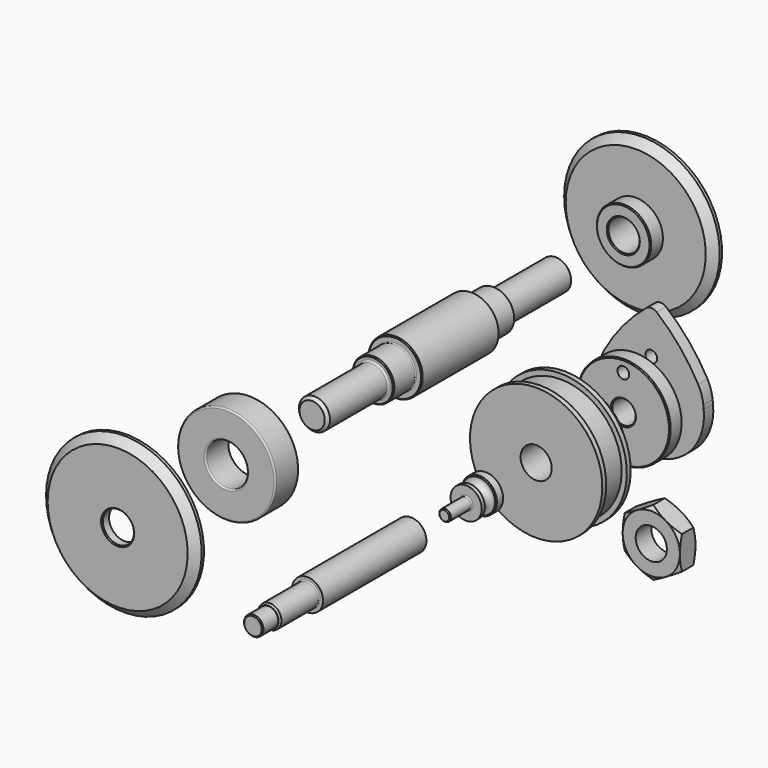
from build123d import *

# Parameters (mm, degrees)
F2_SIZE    = 0.396875
F3_R       = 0.396875
F8_SIZE    = 0.396875
F9_SIZE    = 0.635
F10_R      = 0.396875
F13_SIZE   = 0.396875
F14_R      = 0.396875
F16_R      = 6.35
F16_R_2    = 2.38125
F17_DEPTH  = 4.7625
F18_DEPTH  = 25.4
F21_SIZE   = 1.190625
F22_SIZE   = 0.396875
F22_2_SIZE = 0.396875
F22_3_SIZE = 0.396875
F23_R      = 0.7112
F23_2_R    = 0.7112
F23_3_R    = 0.7112
F24_R      = 0.381
F24_2_R    = 0.381
F25_R      = 6.35
F26_DEPTH  = 7.9375


with BuildPart() as f1:
    # F0 (on Right) → F1 (revolve)
    with BuildSketch(Plane.YZ):
        with BuildLine():
            Line((-34.13125, 2.38125), (-34.13125, 0))
            Line((-34.13125, 0), (-12.7, 0))
            Line((-12.7, 0), (-12.7, 7.14375))
            Line((-12.7, 7.14375), (-16.66875, 7.14375))
            Line((-16.66875, 7.14375), (-16.66875, 6.35))
            ThreePointArc((-16.66875, 6.35), (-19.05, 3.96875), (-21.43125, 6.35))
            Line((-21.43125, 6.35), (-23.01875, 6.35))
            Line((-23.01875, 6.35), (-23.01875, 2.38125))
            Line((-23.01875, 2.38125), (-34.13125, 2.38125))
        make_face()
    revolve(axis=Axis((0, -81.3118070364, 0), (0, -1, 0)))

    # F2
    f2_edges = [f1.edges().sort_by_distance(p)[0] for p in [
        (0, -12.7, -7.14375),
        (0, -16.66875, -7.14375),
        (0, -14.684375, 7.14375),
        (0, -34.13125, -2.38125),
    ]]
    chamfer(f2_edges, length=F2_SIZE)

    # F3
    f3_edges = [f1.edges().sort_by_distance(p)[0] for p in [
        (0, -23.01875, -2.38125),
    ]]
    fillet(f3_edges, radius=F3_R)


with BuildPart() as f5:
    # F4 (on Right) → F5 (revolve)
    with BuildSketch(Plane.YZ):
        Polygon((12.7, 27), (12.7, 6.35), (35.2, 6.35), (35.2, 19), (27.2, 19), (27.2, 27), (25.2, 27), (25.2, 24.9), (14.7, 24.9), (14.7, 27), align=None)
    revolve(axis=Axis((0, 15.1764983311, 0), (0, 1, 0)))

    # F24#2
    f24_2_edges = [f5.edges().sort_by_distance(p)[0] for p in [
        (0, 27.2, -19),
    ]]
    fillet(f24_2_edges, radius=F24_2_R)


with BuildPart() as f7:
    # F6 (on Right) → F7 (revolve)
    with BuildSketch(Plane.YZ):
        Polygon((-131.7625, 3.96875), (-131.7625, 0), (-50.8, 0), (-50.8, 6.35), (-103.98125, 6.35), (-103.98125, 4.7625), (-123.825, 4.7625), (-123.825, 3.96875), align=None)
    revolve(axis=Axis((0, -69.021075964, 0), (0, -1, 0)))

    # F8
    f8_edges = [f7.edges().sort_by_distance(p)[0] for p in [
        (0, -50.8, -6.35),
        (0, -131.7625, -3.96875),
    ]]
    chamfer(f8_edges, length=F8_SIZE)

    # F9
    f9_edges = [f7.edges().sort_by_distance(p)[0] for p in [
        (0, -123.825, -4.7625),
    ]]
    chamfer(f9_edges, length=F9_SIZE)

    # F10
    f10_edges = [f7.edges().sort_by_distance(p)[0] for p in [
        (0, -103.98125, -4.7625),
    ]]
    fillet(f10_edges, radius=F10_R)


with BuildPart() as f12:
    # F11 (on Right) → F12 (revolve)
    with BuildSketch(Plane.YZ):
        Polygon((57.15, 4.7625), (67.46875, 4.7625), (67.46875, 6.35), (63.5, 6.35), (63.5, 19.05), (57.15, 19.05), align=None)
    revolve(axis=Axis((0, 34.108883065, 0), (0, 1, 0)))

    # F13
    f13_edges = [f12.edges().sort_by_distance(p)[0] for p in [
        (0, 67.46875, -4.7625),
        (0, 67.46875, -6.35),
        (0, 63.5, -19.05),
        (0, 57.15, -19.05),
        (0, 60.325, 19.05),
        (0, 57.15, -4.7625),
    ]]
    chamfer(f13_edges, length=F13_SIZE)

    # F14
    f14_edges = [f12.edges().sort_by_distance(p)[0] for p in [
        (0, 63.5, -6.35),
    ]]
    fillet(f14_edges, radius=F14_R)

    # F16 (on offset) → F18 (cut)
    with BuildSketch(Plane.XZ.offset(-76.2)):
        with Locations((0, 14.2875)):
            Circle(F16_R_2)
    extrude(amount=F18_DEPTH, mode=Mode.SUBTRACT)


with BuildPart() as f17:
    # F16 (on offset) → F17 (new body)
    with BuildSketch(Plane.XZ.offset(-76.2)):
        with BuildLine():
            Line((-21.2117580131, 3.9020430609), (-21.380860898, 2.3879651798))
            ThreePointArc((-21.380860898, 2.3879651798), (-0.061505847, -21.5137120802), (21.394165254, 2.26567507))
            Line((21.394165254, 2.26567507), (21.231132795, 3.8051470872))
            ThreePointArc((21.231132795, 3.8051470872), (20.5017667904, 7.3013374897), (19.0913082949, 10.5824849919))
            ThreePointArc((19.0913082949, 10.5824849919), (11.5891131737, 21.5596599982), (2.1792318798, 30.9530319589))
            ThreePointArc((2.1792318798, 30.9530319589), (-0.001269536, 31.7375947142), (-2.1811876789, 30.951412781))
            ThreePointArc((-2.1811876789, 30.951412781), (-11.5841581981, 21.5544770483), (-19.0829775422, 10.5778671803))
            ThreePointArc((-19.0829775422, 10.5778671803), (-20.4779942925, 7.3453849905), (-21.2117580131, 3.9020430609))
        make_face()
        Circle(F16_R, mode=Mode.SUBTRACT)
        with Locations((0, 14.2875)):
            Circle(F16_R_2, mode=Mode.SUBTRACT)
    extrude(amount=F17_DEPTH)


with BuildPart() as f20:
    # F19 (on Top) → F20 (revolve)
    with BuildSketch(Plane.XY):
        Polygon((-98.425, -101.6), (-98.425, -100.8017796516), (-107.95, -100.8017796516), (-107.95, -102.3892796516), (-104.775, -105.5642796516), (-82.55, -105.5642796516), (-82.55, -101.6), align=None)
    revolve(axis=Axis((-76.2, 36.8348529909, 0), (0, -1, 0)))

    # F22
    f22_edges = [f20.edges().sort_by_distance(p)[0] for p in [
        (-69.85, -105.56428, 0),
        (-69.85, -101.6, 0),
        (-82.55, -103.58214, 0),
        (-44.45, -100.80178, 0),
    ]]
    chamfer(f22_edges, length=F22_SIZE)

    # F23#2
    f23_2_edges = [f20.edges().sort_by_distance(p)[0] for p in [
        (-53.975, -101.6, 0),
    ]]
    fillet(f23_2_edges, radius=F23_2_R)


with BuildPart() as f20b:
    # F19 (on Top) → F20, piece 2 (revolve)
    with BuildSketch(Plane.XY):
        with BuildLine():
            ThreePointArc((-96.2, -49.5), (-96.0242640687, -49.9242640687), (-95.6, -50.1))
            Line((-95.6, -50.1), (-85.3, -50.1))
            ThreePointArc((-85.3, -50.1), (-84.8757359313, -49.9242640687), (-84.7, -49.5))
            Line((-84.7, -49.5), (-84.7, -38.7))
            ThreePointArc((-84.7, -38.7), (-84.8757359313, -38.2757359313), (-85.3, -38.1))
            Line((-85.3, -38.1), (-95.6, -38.1))
            ThreePointArc((-95.6, -38.1), (-96.0242640687, -38.2757359313), (-96.2, -38.7))
            Line((-96.2, -38.7), (-96.2, -49.5))
        make_face()
    revolve(axis=Axis((-76.2, 36.8348529909, 0), (0, -1, 0)))


with BuildPart() as f20c:
    # F19 (on Top) → F20, piece 3 (revolve)
    with BuildSketch(Plane.XY):
        Polygon((-82.55, -6.35), (-76.2, -6.35), (-76.2, 119.0498), (-82.55, 119.0498), (-82.55, 86.50605), (-84.70011, 86.50605), (-84.70011, 75.311), (-87.3125, 75.311), (-87.3125, 35.814), (-84.70011, 35.814), (-84.70011, 24.60625), (-82.55, 24.60625), align=None)
    revolve(axis=Axis((-76.2, 36.8348529909, 0), (0, -1, 0)))

    # F21
    f21_edges = [f20c.edges().sort_by_distance(p)[0] for p in [
        (-69.85, -6.35, 0),
        (-69.85, 119.0498, 0),
    ]]
    chamfer(f21_edges, length=F21_SIZE)

    # F22#3
    f22_3_edges = [f20c.edges().sort_by_distance(p)[0] for p in [
        (-67.69989, 24.60625, 0),
        (-65.0875, 35.814, 0),
        (-65.0875, 75.311, 0),
        (-67.69989, 86.50605, 0),
    ]]
    chamfer(f22_3_edges, length=F22_3_SIZE)

    # F23#3
    f23_3_edges = [f20c.edges().sort_by_distance(p)[0] for p in [
        (-69.85, 86.50605, 0),
        (-69.85, 24.60625, 0),
    ]]
    fillet(f23_3_edges, radius=F23_3_R)

    # F24
    f24_edges = [f20c.edges().sort_by_distance(p)[0] for p in [
        (-67.69989, 35.814, 0),
        (-67.69989, 75.311, 0),
    ]]
    fillet(f24_edges, radius=F24_R)


with BuildPart() as f20d:
    # F19 (on Top) → F20, piece 4 (revolve)
    with BuildSketch(Plane.XY):
        Polygon((-87.3125, 152.4), (-82.55, 152.4), (-82.55, 169.06875), (-92.075, 169.06875), (-92.075, 162.71875), (-98.425, 162.71875), (-98.425, 163.5125), (-107.95, 163.5125), (-107.95, 161.925), (-104.775, 158.75), (-87.3125, 158.75), align=None)
    revolve(axis=Axis((-76.2, 36.8348529909, 0), (0, -1, 0)))

    # F22#2
    f22_2_edges = [f20d.edges().sort_by_distance(p)[0] for p in [
        (-69.85, 152.4, 0),
        (-69.85, 169.06875, 0),
        (-82.55, 160.734375, 0),
        (-65.0875, 152.4, 0),
        (-60.325, 169.06875, 0),
        (-44.45, 163.5125, 0),
    ]]
    chamfer(f22_2_edges, length=F22_2_SIZE)

    # F23
    f23_edges = [f20d.edges().sort_by_distance(p)[0] for p in [
        (-53.975, 162.71875, 0),
    ]]
    fillet(f23_edges, radius=F23_R)


with BuildPart() as f26:
    # F25 (on Front) → F26 (new body)
    with BuildSketch(Plane.XZ):
        Polygon((51.816, 6.7457605452), (51.816, -6.7457605452), (63.5, -13.4915210904), (75.184, -6.7457605452), (75.184, 6.7457605452), (63.5, 13.4915210904), align=None)
        with Locations((63.5, 0)):
            Circle(F25_R, mode=Mode.SUBTRACT)
    extrude(amount=F26_DEPTH)

    # F27 (on Top) → F28 (revolve, cut)
    with BuildSketch(Plane.XY):
        Polygon((49.276, -1.4664696837), (51.816, 0), (49.276, 0), align=None)
        Polygon((49.276, -7.9375), (51.816, -7.9375), (49.276, -6.4710303163), align=None)
    revolve(axis=Axis((63.5, -7.9375, 0), (0, -1, 0)), mode=Mode.SUBTRACT)


solid = Compound([f1.part, f5.part, f7.part, f12.part, f17.part, f20.part, f20b.part, f20c.part, f20d.part, f26.part])
